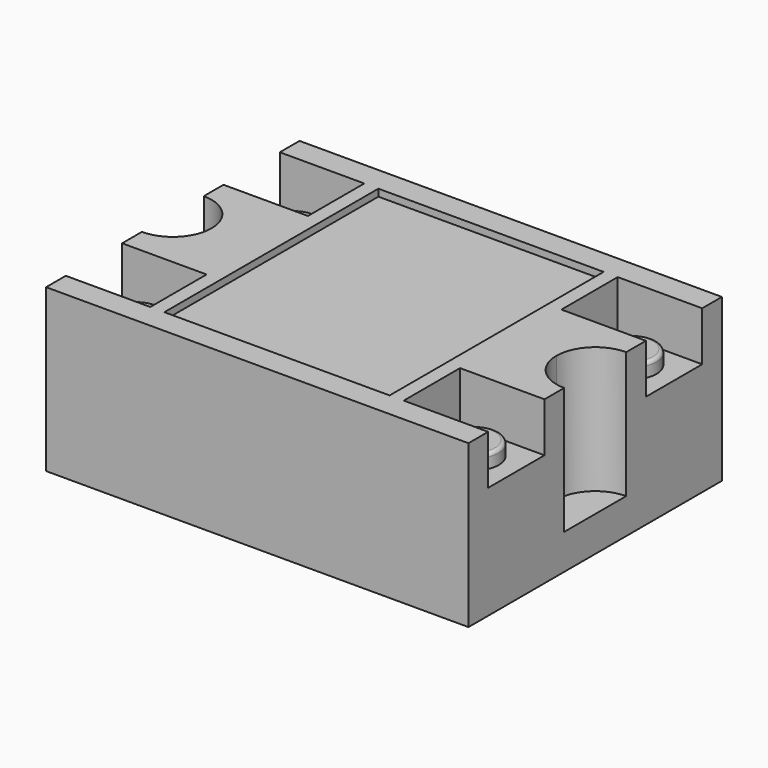
from build123d import *

# Parameters (mm, degrees)
F1_DEPTH = 23
F2_DEPTH = 22
F0_W     = 12
F0_H     = 10
F0_R     = 3.5
F3_DEPTH = 16
F4_DEPTH = 18
F5_R     = 0.5
F6_DEPTH = 5


with BuildPart() as f1:
    # F0 (on Top) → F1 (new body)
    with BuildSketch(Plane.XY):
        with BuildLine():
            Line((60, 45), (30, 45))
            Line((30, 45), (30, 41.5))
            Line((30, 41.5), (46, 41.5))
            Line((46, 41.5), (46, 31.5))
            Line((46, 31.5), (46, 22.5))
            Line((46, 22.5), (54.5, 22.5))
            ThreePointArc((54.5, 22.5), (56.1109127035, 26.3890872965), (60, 28))
            Line((60, 28), (60, 31.5))
            Line((60, 31.5), (48, 31.5))
            Line((48, 31.5), (48, 41.5))
            Line((48, 41.5), (60, 41.5))
            Line((60, 41.5), (60, 45))
        make_face()
        with BuildLine():
            Line((54.5, 22.5), (46, 22.5))
            Line((46, 22.5), (46, 13.5))
            Line((46, 13.5), (46, 3.5))
            Line((46, 3.5), (30, 3.5))
            Line((30, 3.5), (30, 0))
            Line((30, 0), (60, 0))
            Line((60, 0), (60, 3.5))
            Line((60, 3.5), (48, 3.5))
            Line((48, 3.5), (48, 13.5))
            Line((48, 13.5), (60, 13.5))
            Line((60, 13.5), (60, 17))
            ThreePointArc((60, 17), (56.1109127035, 18.6109127035), (54.5, 22.5))
        make_face()
        with BuildLine():
            Line((14, 13.5), (14, 22.5))
            Line((14, 22.5), (5.5, 22.5))
            ThreePointArc((5.5, 22.5), (3.8890872965, 18.6109127035), (0, 17))
            Line((0, 17), (0, 13.5))
            Line((0, 13.5), (12, 13.5))
            Line((12, 13.5), (12, 3.5))
            Line((12, 3.5), (0, 3.5))
            Line((0, 3.5), (0, 0))
            Line((0, 0), (30, 0))
            Line((30, 0), (30, 3.5))
            Line((30, 3.5), (14, 3.5))
            Line((14, 3.5), (14, 13.5))
        make_face()
        with BuildLine():
            Line((30, 45), (0, 45))
            Line((0, 45), (0, 41.5))
            Line((0, 41.5), (6, 41.5))
            Line((6, 41.5), (12, 41.5))
            Line((12, 41.5), (12, 31.5))
            Line((12, 31.5), (6, 31.5))
            Line((6, 31.5), (0, 31.5))
            Line((0, 31.5), (0, 28))
            ThreePointArc((0, 28), (3.8890872965, 26.3890872965), (5.5, 22.5))
            Line((5.5, 22.5), (14, 22.5))
            Line((14, 22.5), (14, 31.5))
            Line((14, 31.5), (14, 41.5))
            Line((14, 41.5), (30, 41.5))
            Line((30, 41.5), (30, 45))
        make_face()
    extrude(amount=F1_DEPTH)

    # F0 (on Top) → F2 (join)
    with BuildSketch(Plane.XY):
        Polygon((30, 22.5), (30, 41.5), (14, 41.5), (14, 31.5), (14, 22.5), align=None)
        Polygon((46, 41.5), (30, 41.5), (30, 22.5), (46, 22.5), (46, 31.5), align=None)
        Polygon((46, 22.5), (30, 22.5), (30, 3.5), (46, 3.5), (46, 13.5), align=None)
        Polygon((30, 3.5), (30, 22.5), (14, 22.5), (14, 13.5), (14, 3.5), align=None)
    extrude(amount=F2_DEPTH)

    # F0 (on Top) → F3 (join)
    with BuildSketch(Plane.XY):
        with BuildLine():
            Line((6, 41.5), (0, 41.5))
            Line((0, 41.5), (0, 31.5))
            Line((0, 31.5), (6, 31.5))
            Line((6, 31.5), (6, 33))
            ThreePointArc((6, 33), (2.5, 36.5), (6, 40))
            Line((6, 40), (6, 41.5))
        make_face()
        with BuildLine():
            Line((12, 41.5), (6, 41.5))
            Line((6, 41.5), (6, 40))
            ThreePointArc((6, 40), (8.4748737342, 38.9748737342), (9.5, 36.5))
            ThreePointArc((9.5, 36.5), (8.4748737342, 34.0251262658), (6, 33))
            Line((6, 33), (6, 31.5))
            Line((6, 31.5), (12, 31.5))
            Line((12, 31.5), (12, 41.5))
        make_face()
        with Locations((6, 8.5)):
            Rectangle(F0_W, F0_H)
        with Locations((6, 8.5)):
            Circle(F0_R, mode=Mode.SUBTRACT)
        with Locations((54, 36.5)):
            Rectangle(F0_W, F0_H)
        with Locations((54, 36.5)):
            Circle(F0_R, mode=Mode.SUBTRACT)
        with Locations((54, 8.5)):
            Rectangle(F0_W, F0_H)
        with Locations((54, 8.5)):
            Circle(F0_R, mode=Mode.SUBTRACT)
    extrude(amount=F3_DEPTH)

    # F0 (on Top) → F4 (join)
    with BuildSketch(Plane.XY):
        with BuildLine():
            ThreePointArc((9.5, 36.5), (8.4748737342, 38.9748737342), (6, 40))
            Line((6, 40), (6, 33))
            ThreePointArc((6, 33), (8.4748737342, 34.0251262658), (9.5, 36.5))
        make_face()
        with BuildLine():
            Line((6, 33), (6, 40))
            ThreePointArc((6, 40), (2.5, 36.5), (6, 33))
        make_face()
        with Locations((6, 8.5)):
            Circle(F0_R)
        with Locations((54, 36.5)):
            Circle(F0_R)
        with Locations((54, 8.5)):
            Circle(F0_R)
    extrude(amount=F4_DEPTH)

    # F5
    f5_edges = [f1.edges().sort_by_distance(p)[0] for p in [
        (2.5, 36.5, 18),
        (2.5, 8.5, 18),
        (50.5, 36.5, 18),
        (50.5, 8.5, 18),
    ]]
    fillet(f5_edges, radius=F5_R)

    # F0 (on Top) → F6 (join)
    with BuildSketch(Plane.XY):
        with BuildLine():
            ThreePointArc((5.5, 22.5), (3.8890872965, 26.3890872965), (0, 28))
            Line((0, 28), (0, 22.5))
            Line((0, 22.5), (5.5, 22.5))
        make_face()
        with BuildLine():
            Line((5.5, 22.5), (0, 22.5))
            Line((0, 22.5), (0, 17))
            ThreePointArc((0, 17), (3.8890872965, 18.6109127035), (5.5, 22.5))
        make_face()
        with BuildLine():
            Line((60, 22.5), (60, 28))
            ThreePointArc((60, 28), (56.1109127035, 26.3890872965), (54.5, 22.5))
            Line((54.5, 22.5), (60, 22.5))
        make_face()
        with BuildLine():
            Line((60, 22.5), (54.5, 22.5))
            ThreePointArc((54.5, 22.5), (56.1109127035, 18.6109127035), (60, 17))
            Line((60, 17), (60, 22.5))
        make_face()
    extrude(amount=F6_DEPTH)


solid = f1.part
